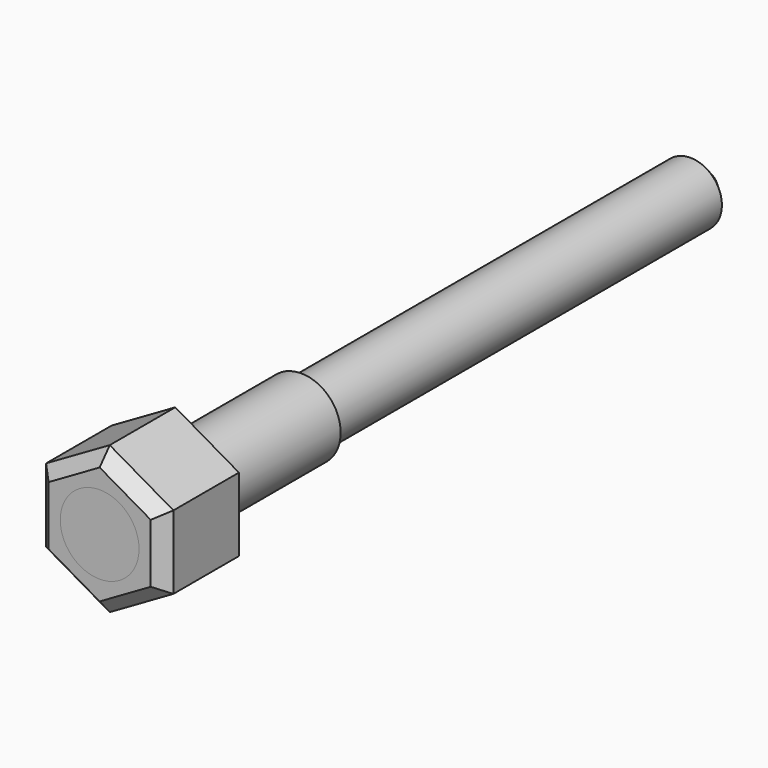
from build123d import *

# Parameters (mm, degrees)
F0_R     = 3.175
F1_DEPTH = 76.2
F2_DEPTH = 9.525
F3_SIZE  = 1.27
F4_R     = 3.96875
F5_DEPTH = 25.4
F6_SIZE  = 1.778


with BuildPart() as f1:
    # F0 (on Front) → F1 (new body)
    with BuildSketch(Plane.XZ):
        Circle(F0_R)
    extrude(amount=-F1_DEPTH)

    # F6
    f6_edges = [f1.edges().sort_by_distance(p)[0] for p in [
        (-3.175, 76.2, 0),
    ]]
    chamfer(f6_edges, length=F6_SIZE)


with BuildPart() as f2:
    # F0 (on Front) → F2 (new body)
    with BuildSketch(Plane.XZ):
        Polygon((6.415805, -3.704167), (6.415805, 3.704167), (0, 7.408333), (-6.415805, 3.704167), (-6.415805, -3.704167), (0, -7.408333), align=None)
        Circle(F0_R, mode=Mode.SUBTRACT)
    extrude(amount=-F2_DEPTH)

    # F3
    f3_edges = [f2.edges().sort_by_distance(p)[0] for p in [
        (-6.415805, 0, 0),
        (-3.207902, 0, -5.55625),
        (3.207902, 0, -5.55625),
        (6.415805, 0, 0),
        (3.207902, 0, 5.55625),
        (-3.207902, 0, 5.55625),
    ]]
    chamfer(f3_edges, length=F3_SIZE)


with BuildPart() as f5:
    # F4 (on Front) → F5 (new body)
    with BuildSketch(Plane.XZ):
        Circle(F4_R)
    extrude(amount=-F5_DEPTH)


solid = Compound([f1.part, f2.part, f5.part])
